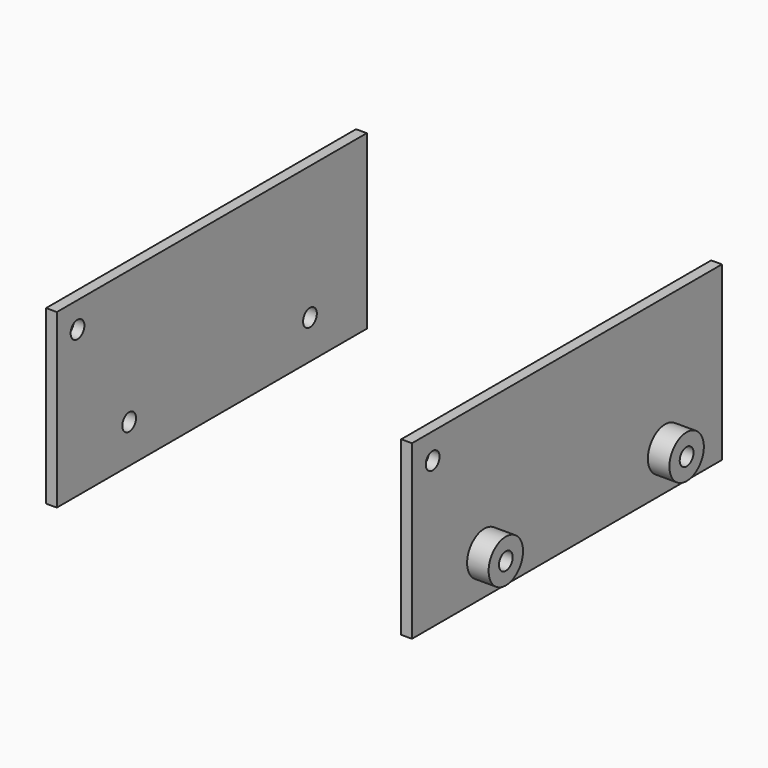
from build123d import *

# Parameters (mm, degrees)
F0_W     = 900
F0_H     = 400
F0_R     = 20
F1_DEPTH = 25
F2_R     = 50
F2_R_2   = 20
F3_DEPTH = 50


with BuildPart() as f1:
    # F0 (on Right) → F1 (new body)
    with BuildSketch(Plane.YZ):
        with Locations((450, 200)):
            Rectangle(F0_W, F0_H)
        with Locations((210, 90)):
            Circle(F0_R, mode=Mode.SUBTRACT)
        with Locations((735, 90)):
            Circle(F0_R, mode=Mode.SUBTRACT)
        with Locations((60, 340)):
            Circle(F0_R, mode=Mode.SUBTRACT)
    extrude(amount=F1_DEPTH)

    # F2 (on face) → F3 (join)
    with BuildSketch(Plane.YZ.offset(25)):
        with Locations((210, 90)):
            Circle(F2_R)
        with Locations((210, 90)):
            Circle(F2_R_2, mode=Mode.SUBTRACT)
        with Locations((735, 90)):
            Circle(F2_R)
        with Locations((735, 90)):
            Circle(F2_R_2, mode=Mode.SUBTRACT)
    extrude(amount=F3_DEPTH)


with BuildPart() as f5_1:
    # F5: instance of F1
    add(f1.part.mirror(Plane(origin=(-400, 451.217022, 200.282208), x_dir=(0, 1, 0), z_dir=(-1, 0, 0))))


solid = Compound([f1.part, f5_1.part])
